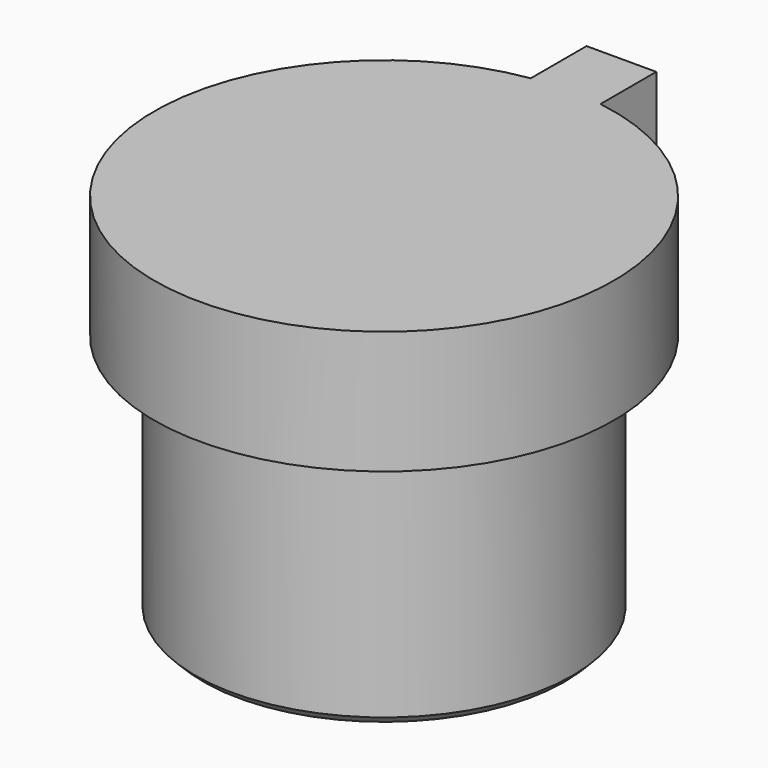
from build123d import *

# Parameters (mm, degrees)
SKETCH064_R     = 2.3
PAD044_DEPTH    = 3
PAD045_DEPTH    = 1.5
SKETCH066_W     = 3
SKETCH066_H     = 1
POCKET013_DEPTH = 0.6
CHAMFER007_SIZE = 0.1


with BuildPart() as part:
    # Sketch064 → Pad044 (new body)
    with BuildSketch(Plane.XY):
        Circle(SKETCH064_R)
    extrude(amount=PAD044_DEPTH)

    # Sketch065 (on Face3 of Pad044) → Pad045 (join)
    with BuildSketch(Plane.XY.offset(3)):
        with BuildLine():
            Line((0.425, 2.767558), (0.425, 3.617558))
            Line((0.425, 3.617558), (-0.425, 3.617558))
            Line((-0.425, 3.617558), (-0.425, 2.767558))
            ThreePointArc((-0.425, 2.767558), (0, -2.8), (0.425, 2.767558))
        make_face()
    extrude(amount=PAD045_DEPTH)

    # Sketch066 → Pocket013 (cut)
    with BuildSketch(Plane.XY):
        Rectangle(SKETCH066_W, SKETCH066_H)
    extrude(amount=POCKET013_DEPTH, mode=Mode.SUBTRACT)

    # Chamfer007
    chamfer007_edges = [part.edges().sort_by_distance(p)[0] for p in [
        (0, -0.5, 0),
        (-2.3, 0, 0),
        (-1.5, 0, 0),
        (0, 0.5, 0),
        (1.5, 0, 0),
    ]]
    chamfer(chamfer007_edges, length=CHAMFER007_SIZE)


with BuildPart() as part_1:
    # Body019 placement: moved
    add(part.part.moved(Location((63.6, 11.5, -1.5))))


solid = part_1.part
